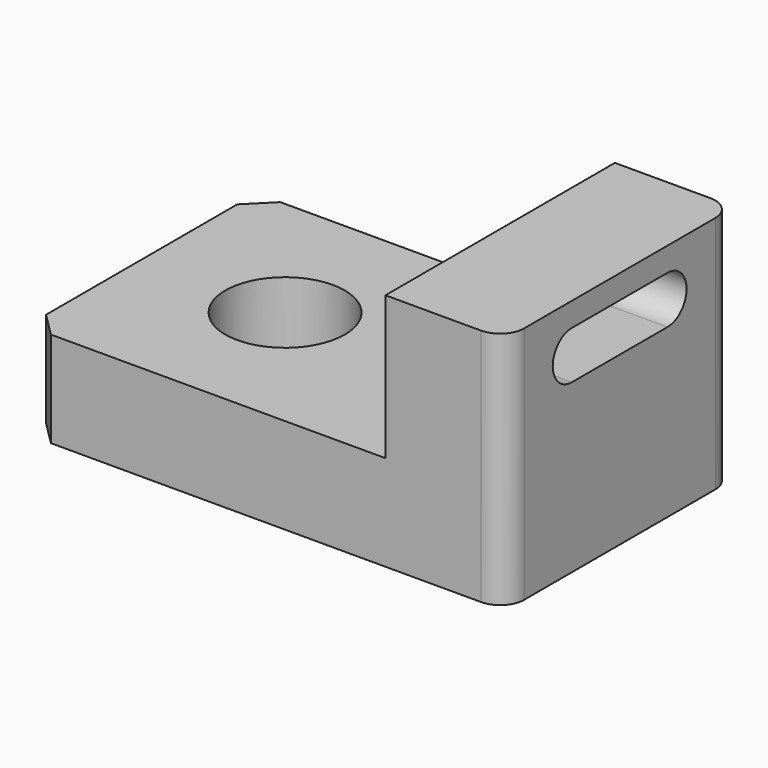
from build123d import *

# Parameters (mm, degrees)
SKETCH_W     = 100
SKETCH_H     = 60
SKETCH_R     = 12.5
PAD_DEPTH    = 20
SKETCH001_W  = 25
SKETCH001_H  = 60
PAD001_DEPTH = 30
POCKET_DEPTH = 25
FILLET_R     = 5
CHAMFER_SIZE = 5


with BuildPart() as part:
    # Sketch → Pad (new body)
    with BuildSketch(Plane.XY):
        with Locations((50, 30)):
            Rectangle(SKETCH_W, SKETCH_H)
        with Locations((30, 30)):
            Circle(SKETCH_R, mode=Mode.SUBTRACT)
    extrude(amount=PAD_DEPTH)

    # Sketch001 (on Face7 of Pad) → Pad001 (join)
    with BuildSketch(Plane.XY.offset(20)):
        with Locations((87.5, 30)):
            Rectangle(SKETCH001_W, SKETCH001_H)
    extrude(amount=PAD001_DEPTH)

    # Sketch002 (on Face8 of Pad001) → Pocket (cut)
    with BuildSketch(Plane.YZ.offset(100)):
        with BuildLine():
            ThreePointArc((17.5, 45), (12.5, 40), (17.5, 35))
            Line((17.5, 35), (42.5, 35))
            ThreePointArc((42.5, 35), (47.5, 40), (42.5, 45))
            Line((42.5, 45), (17.5, 45))
        make_face()
    extrude(amount=-POCKET_DEPTH, mode=Mode.SUBTRACT)

    # Fillet
    fillet_edges = [part.edges().sort_by_distance(p)[0] for p in [
        (100, 0, 25),
        (100, 60, 25),
    ]]
    fillet(fillet_edges, radius=FILLET_R)

    # Chamfer
    chamfer_edges = [part.edges().sort_by_distance(p)[0] for p in [
        (0, 0, 10),
        (0, 60, 10),
    ]]
    chamfer(chamfer_edges, length=CHAMFER_SIZE)


solid = part.part
